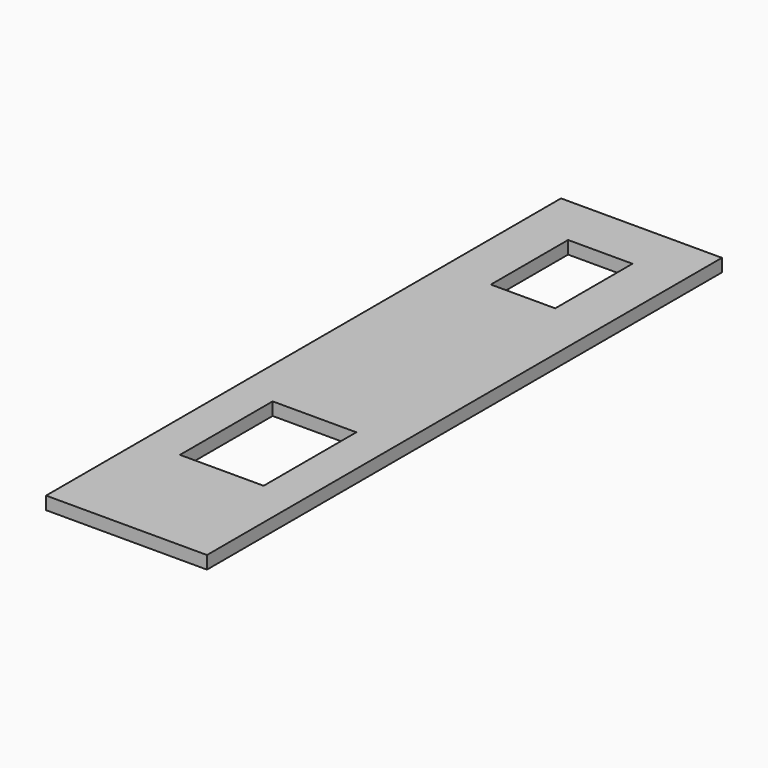
from build123d import *

# Parameters (mm, degrees)
F0_W     = 25
F0_H     = 100
F0_W_2   = 13
F0_H_2   = 18
F0_W_3   = 10
F0_H_3   = 15
F1_DEPTH = 2


with BuildPart() as f1:
    # F0 (on Top) → F1 (new body)
    with BuildSketch(Plane.XY):
        Rectangle(F0_W, F0_H)
        with Locations((0, -22.5)):
            Rectangle(F0_W_2, F0_H_2, mode=Mode.SUBTRACT)
        with Locations((0, 34.5)):
            Rectangle(F0_W_3, F0_H_3, mode=Mode.SUBTRACT)
    extrude(amount=F1_DEPTH)


solid = f1.part
